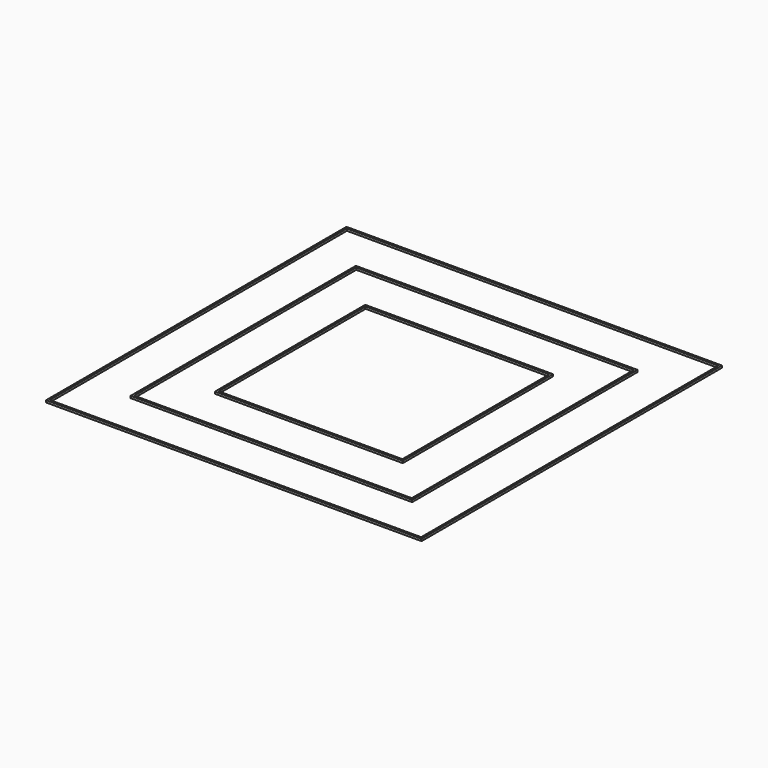
from build123d import *

# Parameters (mm, degrees)
F0_W     = 180
F0_H     = 180
F0_W_2   = 178
F0_H_2   = 178
F1_DEPTH = 1
F0_W_3   = 90
F0_H_3   = 90
F0_W_4   = 88
F0_H_4   = 88
F0_W_5   = 135
F0_H_5   = 135
F0_W_6   = 133
F0_H_6   = 133


with BuildPart() as f1:
    # F0 (on Top) → F1 (new body)
    with BuildSketch(Plane.XY):
        Rectangle(F0_W, F0_H)
        Rectangle(F0_W_2, F0_H_2, mode=Mode.SUBTRACT)
    extrude(amount=F1_DEPTH)


with BuildPart() as f1b:
    # F0 (on Top) → F1, piece 2 (new body)
    with BuildSketch(Plane.XY):
        Rectangle(F0_W_3, F0_H_3)
        Rectangle(F0_W_4, F0_H_4, mode=Mode.SUBTRACT)
    extrude(amount=F1_DEPTH)


with BuildPart() as f1c:
    # F0 (on Top) → F1, piece 3 (new body)
    with BuildSketch(Plane.XY):
        Rectangle(F0_W_5, F0_H_5)
        Rectangle(F0_W_6, F0_H_6, mode=Mode.SUBTRACT)
    extrude(amount=F1_DEPTH)


solid = Compound([f1.part, f1b.part, f1c.part])
